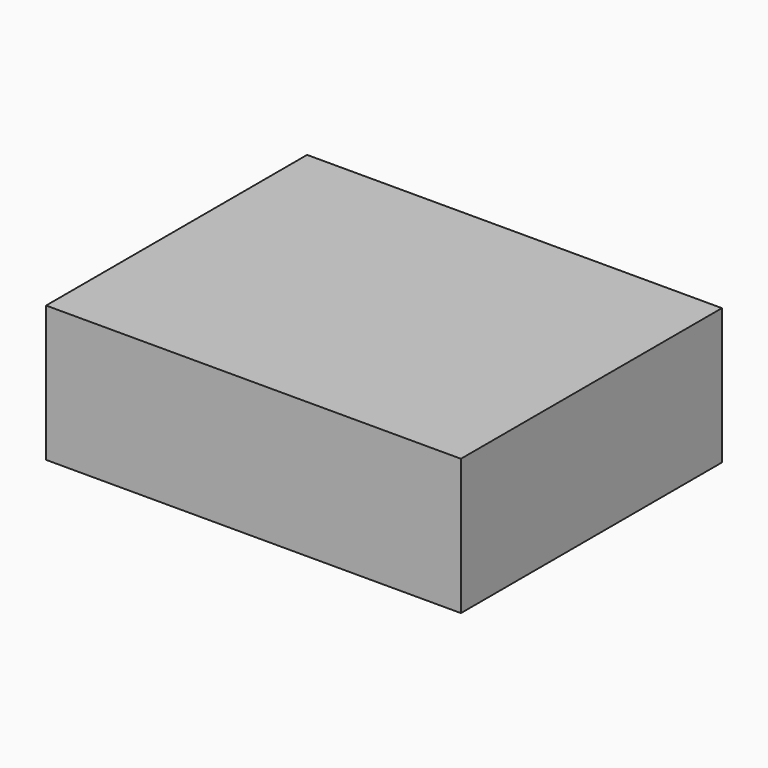
from build123d import *

# Parameters (mm, degrees)
F0_W     = 206.150278
F0_H     = 85.867301
F1_DEPTH = 262.128
F2_W     = 221.906885
F2_H     = 170.495471
F3_DEPTH = 15.24
F4_W     = 229.3874
F4_H     = 177.979987
F5_DEPTH = 40.386


with BuildPart() as f1:
    # F0 (on Right) → F1 (new body)
    with BuildSketch(Plane.YZ):
        with Locations((103.075139, -42.93365)):
            Rectangle(F0_W, F0_H)
    extrude(amount=F1_DEPTH)

    # F2 (on face) → F3 (join)
    with BuildSketch(Plane.XY):
        with Locations((131.61292, 103.582059)):
            Rectangle(F2_W, F2_H)
    extrude(amount=-F3_DEPTH)

    # F4 (on face) → F5 (join)
    with BuildSketch(Plane.XY):
        with Locations((130.545692, 104.651281)):
            Rectangle(F4_W, F4_H)
    extrude(amount=-F5_DEPTH)


solid = f1.part
